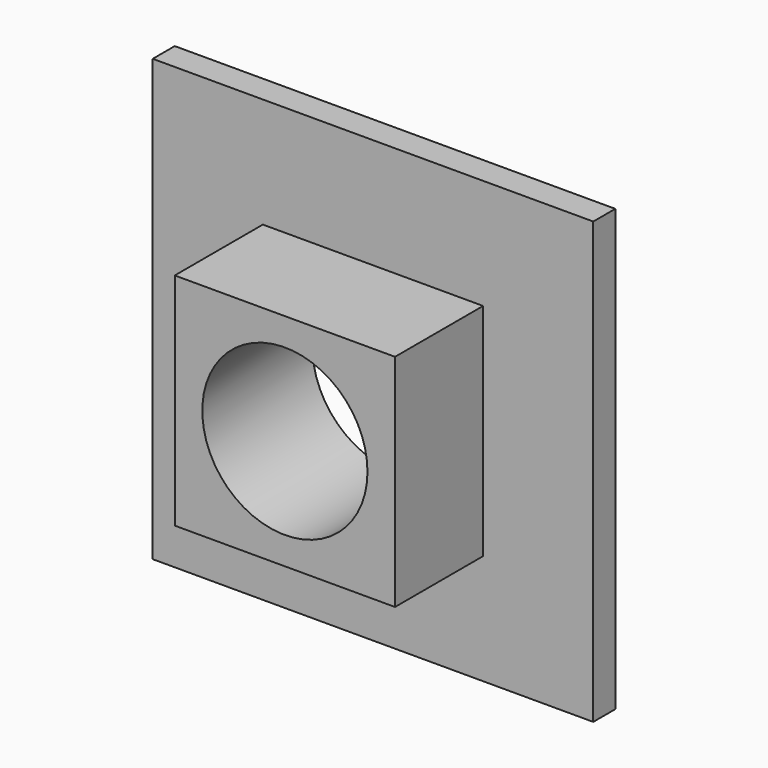
from build123d import *

# Parameters (mm, degrees)
F0_W     = 101.6
F0_H     = 101.6
F1_DEPTH = 6.35
F2_W     = 50.8
F2_H     = 50.8
F3_DEPTH = 25.4
F4_R     = 19.05
F5_DEPTH = 31.751


with BuildPart() as f1:
    # F0 (on Front) → F1 (new body)
    with BuildSketch(Plane.XZ):
        with Locations((50.8, 50.8)):
            Rectangle(F0_W, F0_H)
    extrude(amount=F1_DEPTH)

    # F2 (on face) → F3 (join)
    with BuildSketch(Plane.XZ.offset(6.35)):
        with Locations((50.8, 50.8)):
            Rectangle(F2_W, F2_H)
    extrude(amount=F3_DEPTH)

    # F4 (on face) → F5 (cut, through all)
    with BuildSketch(Plane.XZ.offset(31.75)):
        with Locations((50.8, 50.8)):
            Circle(F4_R)
    extrude(amount=-F5_DEPTH, mode=Mode.SUBTRACT)


solid = f1.part
